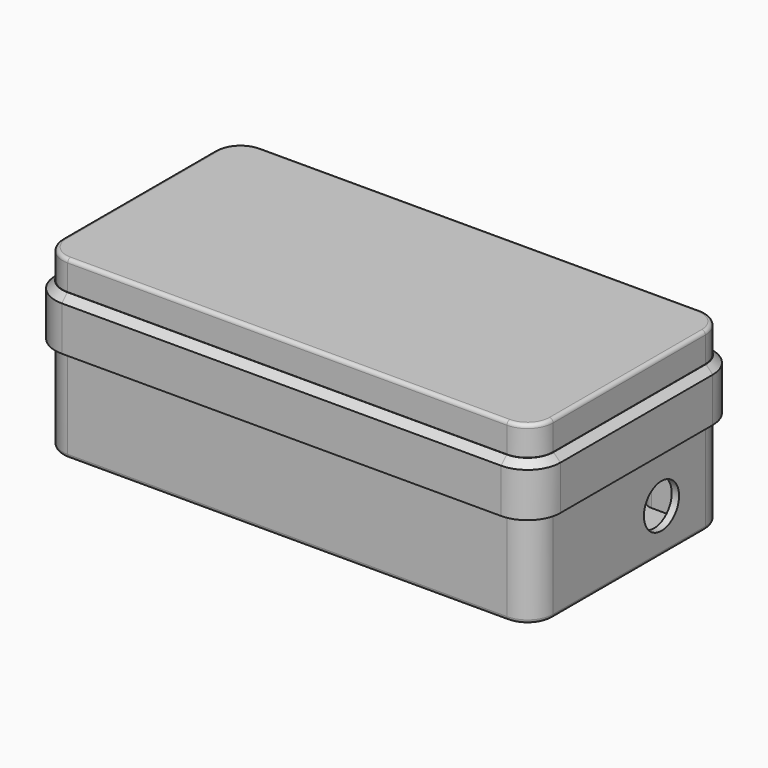
from build123d import *

# Parameters (mm, degrees)
CYLINDER_R       = 6
CYLINDER_DEPTH   = 2
SKETCH023_R      = 4.7
EXTRUDE011_DEPTH = 2
EXTRUDE008_DEPTH = 36
FILLET_R         = 1
EXTRUDE010_DEPTH = 3
CHAMFER_SIZE     = 1.8
SKETCH015_W      = 2
SKETCH015_H      = 31
EXTRUDE003_DEPTH = 12
SKETCH016_R      = 1.15
EXTRUDE004_DEPTH = 4
SKETCH012_R      = 3.5
EXTRUDE001_DEPTH = 4
SKETCH017_R      = 1.25
EXTRUDE005_DEPTH = 14
SKETCH_R         = 3.5
EXTRUDE002_DEPTH = 14
SKETCH019_R      = 1.25
EXTRUDE007_DEPTH = 32
SKETCH018_R      = 3.5
EXTRUDE006_DEPTH = 32
EXTRUDE_DEPTH    = 2
EXTRUDE013_DEPTH = 12
FILLET001_R      = 1
EXTRUDE014_DEPTH = 14
CHAMFER001_SIZE  = 1.9
EXTRUDE012_DEPTH = 2


with BuildPart() as cylinder_sd_card_hole:
    # Cylinder → Cylinder (new body)
    with BuildSketch(Plane(origin=(65, 11, 12), x_dir=(0, 0, -1), z_dir=(1, 0, 0))):
        Circle(CYLINDER_R)
    extrude(amount=CYLINDER_DEPTH)


with BuildPart() as fusion_side_walls_holes:
    # Sketch023 → Extrude011 (new body)
    with BuildSketch(Plane.XZ.offset(-33)):
        with Locations((40, 8.8)):
            Circle(SKETCH023_R)
        with Locations((26, 8.8)):
            Circle(SKETCH023_R)
        Polygon((1, 13.6), (-11, 13.6), (-11, 11.2), (-9, 9.2), (-1, 9.2), (1, 11.2), align=None)
        Polygon((-29.4, 12.6), (-38.4, 12.6), (-38.4, 10.9), (-36.7, 9.2), (-31.1, 9.2), (-29.4, 10.9), align=None)
        Polygon((-42, 12.6), (-51, 12.6), (-51, 10.9), (-49.3, 9.2), (-43.7, 9.2), (-42, 10.9), align=None)
        with BuildLine():
            ThreePointArc((-48.9, 6.2), (-50.031371, 5.731371), (-50.5, 4.6))
            Line((-50.5, 3.8), (-50.5, 4.6))
            ThreePointArc((-50.5, 3.8), (-50.031371, 2.668629), (-48.9, 2.2))
            Line((-42.1, 2.2), (-48.9, 2.2))
            ThreePointArc((-42.1, 2.2), (-40.968629, 2.668629), (-40.5, 3.8))
            Line((-40.5, 4.6), (-40.5, 3.8))
            ThreePointArc((-40.5, 4.6), (-40.968629, 5.731371), (-42.1, 6.2))
            Line((-48.9, 6.2), (-42.1, 6.2))
        make_face()
    extrude(amount=EXTRUDE011_DEPTH)

    # Fusion001: union Cylinder SD Card Hole
    add(cylinder_sd_card_hole.part)


with BuildPart() as fillet_side_walls:
    # Sketch020 → Extrude008 (new body)
    with BuildSketch(Plane.XY):
        with BuildLine():
            ThreePointArc((-60, 33), (-64.949747, 30.949747), (-67, 26))
            Line((-67, -26), (-67, 26))
            ThreePointArc((-67, -26), (-64.949747, -30.949747), (-60, -33))
            Line((60.000026, -33), (-60, -33))
            ThreePointArc((60.000026, -33), (64.949757, -30.949738), (67, -26))
            Line((67, 26), (67, -26))
            ThreePointArc((67, 26), (64.949747, 30.949748), (60, 33))
            Line((-60, 33), (60, 33))
        make_face()
        with BuildLine():
            ThreePointArc((-60, 31), (-63.535534, 29.535534), (-65, 26))
            Line((-65, -26), (-65, 26))
            ThreePointArc((-65, -26), (-63.535534, -29.535534), (-60, -31))
            Line((60, -31), (-60, -31))
            ThreePointArc((60, -31), (63.535534, -29.535534), (65, -26))
            Line((65, 26), (65, -26))
            ThreePointArc((65, 26), (63.535534, 29.535534), (60, 31))
            Line((-60, 31), (60, 31))
        make_face(mode=Mode.SUBTRACT)
    extrude(amount=EXTRUDE008_DEPTH)

    # Cut003: cut Fusion Side Walls Holes
    add(fusion_side_walls_holes.part, mode=Mode.SUBTRACT)

    # Fillet
    fillet_edges = [fillet_side_walls.edges().sort_by_distance(p)[0] for p in [
        (-64.949747, 30.949747, 0),
        (-64.949747, 30.949747, 36),
        (0, 33, 0),
        (0, 33, 36),
        (-67, 0, 0),
        (-67, 0, 36),
        (-64.949747, -30.949747, 0),
        (1.3e-05, -33, 0),
        (64.949757, -30.949738, 0),
        (67, 0, 0),
        (64.949747, 30.949748, 0),
        (-64.949747, -30.949747, 36),
        (1.3e-05, -33, 36),
        (64.949757, -30.949738, 36),
        (67, 0, 36),
        (64.949747, 30.949748, 36),
    ]]
    fillet(fillet_edges, radius=FILLET_R)


with BuildPart() as chamfer_face_panel_lip:
    # Sketch022 → Extrude010 (new body)
    with BuildSketch(Plane.XY):
        with BuildLine():
            ThreePointArc((-60, 31), (-63.535534, 29.535534), (-65, 26))
            Line((-65, -26), (-65, 26))
            ThreePointArc((-65, -26), (-63.535534, -29.535534), (-60, -31))
            Line((60, -31), (-60, -31))
            ThreePointArc((60, -31), (63.535534, -29.535534), (65, -26))
            Line((65, 26), (65, -26))
            ThreePointArc((65, 26), (63.535534, 29.535534), (60, 31))
            Line((-60, 31), (60, 31))
        make_face()
        with BuildLine():
            ThreePointArc((-60, 29), (-62.12132, 28.12132), (-63, 26))
            Line((-63, -25.999978), (-63, 26))
            ThreePointArc((-63, -25.999978), (-62.121328, -28.121312), (-60, -29))
            Line((60, -29), (-60, -29))
            ThreePointArc((60, -29), (62.12132, -28.12132), (63, -26))
            Line((63, 26), (63, -26))
            ThreePointArc((63, 26), (62.121319, 28.121322), (59.999996, 29))
            Line((-60, 29), (59.999996, 29))
        make_face(mode=Mode.SUBTRACT)
    extrude(amount=EXTRUDE010_DEPTH)


with BuildPart() as chamfer_face_panel_lip_1:
    # Extrude010 placement: moved
    add(chamfer_face_panel_lip.part.moved(Location((0, 0, 31))))

    # Chamfer
    chamfer_edges = [chamfer_face_panel_lip_1.edges().sort_by_distance(p)[0] for p in [
        (-63, 1.1e-05, 31),
        (0, -29, 31),
        (63, 0, 31),
        (-2e-06, 29, 31),
    ]]
    chamfer(chamfer_edges, length=CHAMFER_SIZE)


with BuildPart() as obj1:
    # Sketch015 → Extrude003 (new body)
    with BuildSketch(Plane.XY):
        Polygon((8.5, -31), (8.5, -2), (-47.5, -2), (-47.5, 0), (10.5, 0), (10.5, -31), align=None)
        with Locations((-51.5, -15.5)):
            Rectangle(SKETCH015_W, SKETCH015_H)
    extrude(amount=EXTRUDE003_DEPTH)


with BuildPart() as obj1_1:
    # Extrude003 placement: moved
    add(obj1.part.moved(Location((0, 0, 2))))


with BuildPart() as extrude_pi_zero_standoffs_blind_holes:
    # Sketch016 → Extrude004 (new body)
    with BuildSketch(Plane.XY):
        with Locations((-54, 27.4)):
            Circle(SKETCH016_R)
        with Locations((4, 27.4)):
            Circle(SKETCH016_R)
        with Locations((-54, 4.4)):
            Circle(SKETCH016_R)
        with Locations((4, 4.4)):
            Circle(SKETCH016_R)
    extrude(amount=EXTRUDE004_DEPTH)


with BuildPart() as extrude_pi_zero_standoffs_blind_holes_1:
    # Extrude004 placement: moved
    add(extrude_pi_zero_standoffs_blind_holes.part.moved(Location((0, 0, 2))))


with BuildPart() as cut_pi_zero_standoffs:
    # Sketch012 → Extrude001 (new body)
    with BuildSketch(Plane.XY):
        with Locations((-54, 27.4)):
            Circle(SKETCH012_R)
        with Locations((4, 27.4)):
            Circle(SKETCH012_R)
        with Locations((-54, 4.4)):
            Circle(SKETCH012_R)
        with Locations((4, 4.4)):
            Circle(SKETCH012_R)
    extrude(amount=EXTRUDE001_DEPTH)


with BuildPart() as cut_pi_zero_standoffs_1:
    # Extrude001 placement: moved
    add(cut_pi_zero_standoffs.part.moved(Location((0, 0, 2))))

    # Cut: cut Extrude Pi Zero Standoffs Blind Holes
    add(extrude_pi_zero_standoffs_blind_holes_1.part, mode=Mode.SUBTRACT)


with BuildPart() as obj2:
    # Sketch017 → Extrude005 (new body)
    with BuildSketch(Plane.XY):
        with Locations((12, 27.4)):
            Circle(SKETCH017_R)
        with Locations((54, 27.4)):
            Circle(SKETCH017_R)
        with Locations((12, -14.6)):
            Circle(SKETCH017_R)
        with Locations((54, -14.6)):
            Circle(SKETCH017_R)
    extrude(amount=EXTRUDE005_DEPTH)


with BuildPart() as obj2_1:
    # Extrude005 placement: moved
    add(obj2.part.moved(Location((0, 0, 2))))


with BuildPart() as obj3:
    # Sketch → Extrude002 (new body)
    with BuildSketch(Plane.XY):
        with Locations((12, 27.4)):
            Circle(SKETCH_R)
        with Locations((12, -14.6)):
            Circle(SKETCH_R)
        with Locations((54, -14.6)):
            Circle(SKETCH_R)
        with BuildLine():
            Line((54, 30.9), (61.5, 30.9))
            Line((61.5, 30.9), (61.5, 23.9))
            Line((61.5, 23.9), (54, 23.9))
            ThreePointArc((54, 30.9), (50.5, 27.4), (54, 23.9))
        make_face()
    extrude(amount=EXTRUDE002_DEPTH)


with BuildPart() as obj3_1:
    # Extrude002 placement: moved
    add(obj3.part.moved(Location((0, 0, 2))))

    # Cut001: cut obj2
    add(obj2_1.part, mode=Mode.SUBTRACT)


with BuildPart() as extrude_face_panel_standoffs_blind_holes:
    # Sketch019 → Extrude007 (new body)
    with BuildSketch(Plane.XY):
        with Locations((-61.5, 27.5)):
            Circle(SKETCH019_R)
        with Locations((61.5, 27.5)):
            Circle(SKETCH019_R)
        with Locations((-61.5, -27.5)):
            Circle(SKETCH019_R)
        with Locations((61.5, -27.5)):
            Circle(SKETCH019_R)
    extrude(amount=EXTRUDE007_DEPTH)


with BuildPart() as extrude_face_panel_standoffs_blind_holes_1:
    # Extrude007 placement: moved
    add(extrude_face_panel_standoffs_blind_holes.part.moved(Location((0, 0, 2))))


with BuildPart() as cut_face_panel_standoffs:
    # Sketch018 → Extrude006 (new body)
    with BuildSketch(Plane.XY):
        with Locations((-61.5, 27.5)):
            Circle(SKETCH018_R)
        with Locations((61.5, 27.5)):
            Circle(SKETCH018_R)
        with Locations((-61.5, -27.5)):
            Circle(SKETCH018_R)
        with Locations((61.5, -27.5)):
            Circle(SKETCH018_R)
    extrude(amount=EXTRUDE006_DEPTH)


with BuildPart() as cut_face_panel_standoffs_1:
    # Extrude006 placement: moved
    add(cut_face_panel_standoffs.part.moved(Location((0, 0, 2))))

    # Cut002: cut Extrude Face Panel Standoffs Blind Holes
    add(extrude_face_panel_standoffs_blind_holes_1.part, mode=Mode.SUBTRACT)


with BuildPart() as fusion_bottom:
    # Sketch006 → Extrude (new body)
    with BuildSketch(Plane.XY):
        with BuildLine():
            ThreePointArc((-60, 31), (-63.535534, 29.535534), (-65, 26))
            Line((-65, -26), (-65, 26))
            ThreePointArc((-65, -26), (-63.535534, -29.535534), (-60, -31))
            Line((60, -31), (-60, -31))
            ThreePointArc((60, -31), (63.535534, -29.535534), (65, -26))
            Line((65, 26), (65, -26))
            ThreePointArc((65, 26), (63.535534, 29.535534), (60, 31))
            Line((-60, 31), (60, 31))
        make_face()
    extrude(amount=EXTRUDE_DEPTH)

    # Fusion: union Fillet Side Walls, Chamfer Face Panel Lip, obj1, Cut Pi Zero Standoffs, obj3, Cut Face Panel Standoffs
    add(fillet_side_walls.part)
    add(chamfer_face_panel_lip_1.part)
    add(obj1_1.part)
    add(cut_pi_zero_standoffs_1.part)
    add(obj3_1.part)
    add(cut_face_panel_standoffs_1.part)


with BuildPart() as fillet_lid_walls:
    # Sketch025 → Extrude013 (new body)
    with BuildSketch(Plane.XY):
        with BuildLine():
            ThreePointArc((-60, 33), (-64.949747, 30.949747), (-67, 26))
            Line((-67, -26), (-67, 26))
            ThreePointArc((-67, -26), (-64.949747, -30.949747), (-60, -33))
            Line((60.000026, -33), (-60, -33))
            ThreePointArc((60.000026, -33), (64.949757, -30.949738), (67, -26))
            Line((67, 26), (67, -26))
            ThreePointArc((67, 26), (64.949747, 30.949748), (60, 33))
            Line((-60, 33), (60, 33))
        make_face()
        with BuildLine():
            ThreePointArc((-60, 31), (-63.535534, 29.535534), (-65, 26))
            Line((-65, -26), (-65, 26))
            ThreePointArc((-65, -26), (-63.535534, -29.535534), (-60, -31))
            Line((60, -31), (-60, -31))
            ThreePointArc((60, -31), (63.535534, -29.535534), (65, -26))
            Line((65, 26), (65, -26))
            ThreePointArc((65, 26), (63.535534, 29.535534), (60, 31))
            Line((-60, 31), (60, 31))
        make_face(mode=Mode.SUBTRACT)
    extrude(amount=-EXTRUDE013_DEPTH)


with BuildPart() as fillet_lid_walls_1:
    # Extrude013 placement: moved
    add(fillet_lid_walls.part.moved(Location((0, 0, 48))))

    # Fillet001
    fillet001_edges = [fillet_lid_walls_1.edges().sort_by_distance(p)[0] for p in [
        (-64.949747, 30.949747, 48),
        (-67, 0, 48),
        (-64.949747, -30.949747, 48),
        (1.3e-05, -33, 48),
        (64.949757, -30.949738, 48),
        (67, 0, 48),
        (64.949747, 30.949748, 48),
        (0, 33, 48),
    ]]
    fillet(fillet001_edges, radius=FILLET001_R)


with BuildPart() as chamfer_lid_lip:
    # Sketch026 → Extrude014 (new body)
    with BuildSketch(Plane.XY):
        with BuildLine():
            ThreePointArc((-60, 35), (-66.363961, 32.363961), (-69, 26))
            Line((-69, -26), (-69, 26))
            ThreePointArc((-69, -26), (-66.363961, -32.363961), (-60, -35))
            Line((59.999981, -35), (-60, -35))
            ThreePointArc((59.999981, -35), (66.363954, -32.363968), (69, -26))
            Line((69, 26), (69, -26))
            ThreePointArc((69, 26), (66.363952, 32.36397), (59.999976, 35))
            Line((-60, 35), (59.999976, 35))
        make_face()
        with BuildLine():
            ThreePointArc((-60, 33), (-64.949747, 30.949747), (-67, 26))
            Line((-67, -26), (-67, 26))
            ThreePointArc((-67, -26), (-64.949747, -30.949747), (-60, -33))
            Line((60, -33), (-60, -33))
            ThreePointArc((60, -33), (64.949747, -30.949747), (67, -26))
            Line((67, 26), (67, -26))
            ThreePointArc((67, 26), (64.949747, 30.949747), (60, 33))
            Line((-60, 33), (60, 33))
        make_face(mode=Mode.SUBTRACT)
    extrude(amount=-EXTRUDE014_DEPTH)


with BuildPart() as chamfer_lid_lip_1:
    # Extrude014 placement: moved
    add(chamfer_lid_lip.part.moved(Location((0, 0, 40))))

    # Chamfer001
    chamfer001_edges = [chamfer_lid_lip_1.edges().sort_by_distance(p)[0] for p in [
        (-66.363961, 32.363961, 40),
        (-69, 0, 40),
        (-66.363961, -32.363961, 40),
        (-9e-06, -35, 40),
        (66.363954, -32.363968, 40),
        (69, 0, 40),
        (66.363952, 32.36397, 40),
        (-1.2e-05, 35, 40),
    ]]
    chamfer(chamfer001_edges, length=CHAMFER001_SIZE)


with BuildPart() as fusion_lid:
    # Sketch024 → Extrude012 (new body)
    with BuildSketch(Plane.XY):
        with BuildLine():
            ThreePointArc((-60, 31), (-63.535534, 29.535534), (-65, 26))
            Line((-65, -26), (-65, 26))
            ThreePointArc((-65, -26), (-63.535534, -29.535534), (-60, -31))
            Line((60, -31), (-60, -31))
            ThreePointArc((60, -31), (63.535534, -29.535534), (65, -26))
            Line((65, 26), (65, -26))
            ThreePointArc((65, 26), (63.535534, 29.535534), (60, 31))
            Line((-60, 31), (60, 31))
        make_face()
    extrude(amount=EXTRUDE012_DEPTH)


with BuildPart() as fusion_lid_1:
    # Extrude012 placement: moved
    add(fusion_lid.part.moved(Location((0, 0, 46))))

    # Fusion002: union Fillet Lid Walls, Chamfer Lid Lip
    add(fillet_lid_walls_1.part)
    add(chamfer_lid_lip_1.part)


solid = Compound([fusion_bottom.part, fusion_lid_1.part])
